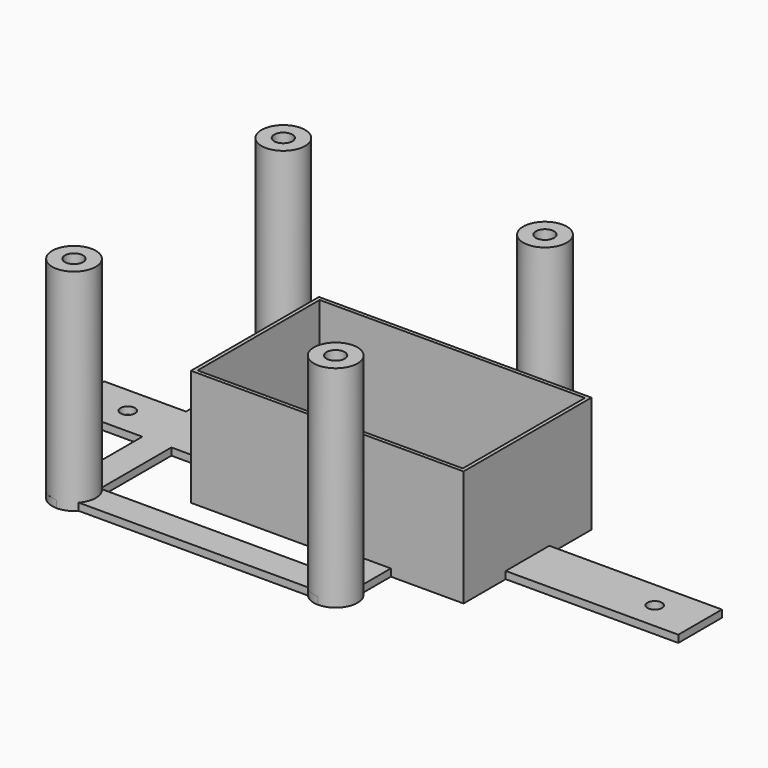
from build123d import *

# Parameters (mm, degrees)
SKETCH_R      = 2
PAD_DEPTH     = 2
SKETCH001_W   = 75
SKETCH001_H   = 44
SKETCH001_W_2 = 73
SKETCH001_H_2 = 42
PAD001_DEPTH  = 32
SKETCH002_R   = 6
PAD002_DEPTH  = 58
SKETCH003_R   = 2.5
POCKET_DEPTH  = 10


with BuildPart() as part:
    # Sketch → Pad (new body)
    with BuildSketch(Plane.XY):
        with BuildLine():
            Line((37.5, 22), (37.5, 7.5))
            Line((37.5, 7.5), (85, 7.5))
            Line((85, 7.5), (85, -7.5))
            Line((85, -7.5), (37.5, -7.5))
            Line((37.5, -7.5), (37.5, -22))
            Line((37.5, -22), (17.5, -22))
            Line((17.5, -22), (17.5, -31.527864))
            ThreePointArc((9.027864, -40), (17.742641, -40.242641), (17.5, -31.527864))
            Line((9.027864, -40), (-54.027864, -40))
            ThreePointArc((-62.5, -31.527864), (-62.742641, -40.242641), (-54.027864, -40))
            Line((-62.5, -31.527864), (-62.5, -7.5))
            Line((-62.5, -7.5), (-85, -7.5))
            Line((-85, -7.5), (-85, 7.5))
            Line((-85, 7.5), (-62.5, 7.5))
            Line((-62.5, 7.5), (-62.5, 31.527864))
            ThreePointArc((-54.027864, 40), (-62.742641, 40.242641), (-62.5, 31.527864))
            Line((-54.027864, 40), (9.027864, 40))
            ThreePointArc((17.5, 31.527864), (17.742641, 40.242641), (9.027864, 40))
            Line((17.5, 31.527864), (17.5, 22))
            Line((17.5, 22), (37.5, 22))
        make_face()
        with Locations((-72.5, 0)):
            Circle(SKETCH_R, mode=Mode.SUBTRACT)
        with Locations((72.5, 0)):
            Circle(SKETCH_R, mode=Mode.SUBTRACT)
        with BuildLine():
            Line((-37.5, 22), (9.5, 22))
            Line((9.5, 31.527864), (9.5, 22))
            ThreePointArc((9.027864, 32), (9.257359, 31.757359), (9.5, 31.527864))
            Line((-54.027864, 32), (9.027864, 32))
            ThreePointArc((-54.5, 31.527864), (-54.257359, 31.757359), (-54.027864, 32))
            Line((-54.5, 7.5), (-54.5, 31.527864))
            Line((-54.5, 7.5), (-37.5, 7.5))
            Line((-37.5, 7.5), (-37.5, 22))
        make_face(mode=Mode.SUBTRACT)
        with BuildLine():
            Line((-37.5, -22), (-37.5, -7.5))
            Line((-37.5, -7.5), (-54.5, -7.5))
            Line((-54.5, -31.527864), (-54.5, -7.5))
            ThreePointArc((-54.027864, -32), (-54.257359, -31.757359), (-54.5, -31.527864))
            Line((9.027864, -32), (-54.027864, -32))
            ThreePointArc((9.5, -31.527864), (9.257359, -31.757359), (9.027864, -32))
            Line((9.5, -22), (9.5, -31.527864))
            Line((9.5, -22), (-37.5, -22))
        make_face(mode=Mode.SUBTRACT)
    extrude(amount=PAD_DEPTH)

    # Sketch001 → Pad001 (join)
    with BuildSketch(Plane.XY):
        Rectangle(SKETCH001_W, SKETCH001_H)
        Rectangle(SKETCH001_W_2, SKETCH001_H_2, mode=Mode.SUBTRACT)
    extrude(amount=PAD001_DEPTH)

    # Sketch002 → Pad002 (join)
    with BuildSketch(Plane.XY):
        with Locations((-58.486508, 36)):
            Circle(SKETCH002_R)
        with Locations((13.513492, 36)):
            Circle(SKETCH002_R)
        with Locations((-58.486508, -36)):
            Circle(SKETCH002_R)
        with Locations((13.513492, -36)):
            Circle(SKETCH002_R)
    extrude(amount=PAD002_DEPTH)

    # Sketch003 (on Face43 of Pad002) → Pocket (cut)
    with BuildSketch(Plane.XY.offset(58)):
        with Locations((-58.5, 36)):
            Circle(SKETCH003_R)
        with Locations((-58.5, -36)):
            Circle(SKETCH003_R)
        with Locations((13.5, -36)):
            Circle(SKETCH003_R)
        with Locations((13.5, 36)):
            Circle(SKETCH003_R)
    extrude(amount=-POCKET_DEPTH, mode=Mode.SUBTRACT)


solid = part.part
